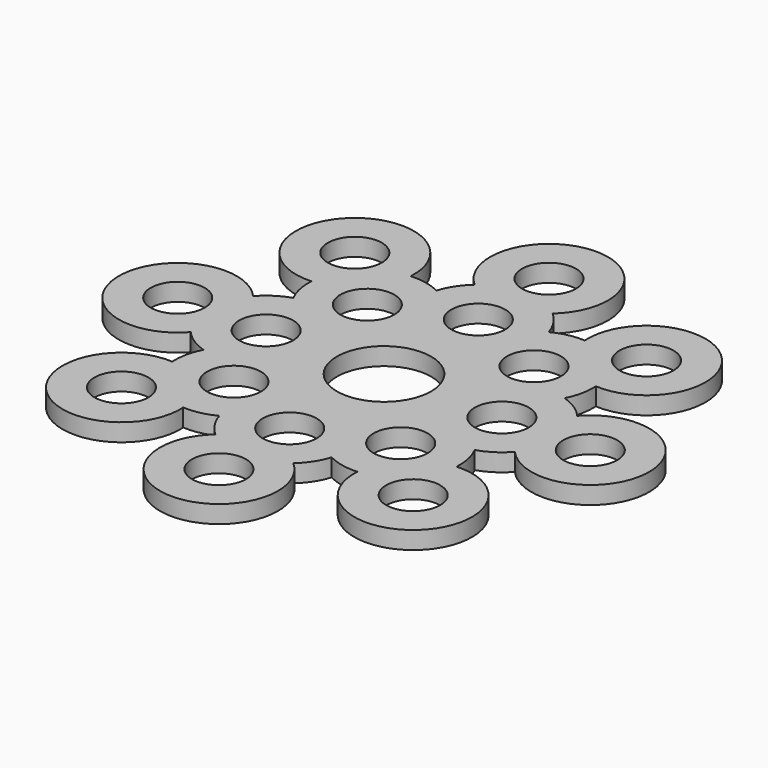
from build123d import *

# Parameters (mm, degrees)
F0_R     = 4.58
F0_R_2   = 8
F1_DEPTH = 3


with BuildPart() as f1:
    # F0 (on Top) → F1 (new body)
    with BuildSketch(Plane.XY):
        with BuildLine():
            ThreePointArc((6.614378, 27.5), (0, 45), (-6.614378, 27.5))
            ThreePointArc((-6.614378, 27.5), (-8.379534, 25.457418), (-9.533996, 23.017103))
            ThreePointArc((-9.533996, 23.017103), (-12.075887, 23.926338), (-14.768365, 24.122508))
            ThreePointArc((-14.768365, 24.122508), (-31.819805, 31.819805), (-24.122508, 14.768365))
            ThreePointArc((-24.122508, 14.768365), (-23.926338, 12.075887), (-23.017103, 9.533996))
            ThreePointArc((-23.017103, 9.533996), (-25.457418, 8.379534), (-27.5, 6.614378))
            ThreePointArc((-27.5, 6.614378), (-45, 0), (-27.5, -6.614378))
            ThreePointArc((-27.5, -6.614378), (-25.457418, -8.379534), (-23.017103, -9.533996))
            ThreePointArc((-23.017103, -9.533996), (-23.926338, -12.075887), (-24.122508, -14.768365))
            ThreePointArc((-24.122508, -14.768365), (-31.819805, -31.819805), (-14.768365, -24.122508))
            ThreePointArc((-14.768365, -24.122508), (-12.075887, -23.926338), (-9.533996, -23.017103))
            ThreePointArc((-9.533996, -23.017103), (-8.379534, -25.457418), (-6.614378, -27.5))
            ThreePointArc((-6.614378, -27.5), (0, -45), (6.614378, -27.5))
            ThreePointArc((6.614378, -27.5), (8.379534, -25.457418), (9.533996, -23.017103))
            ThreePointArc((9.533996, -23.017103), (12.075887, -23.926338), (14.768365, -24.122508))
            ThreePointArc((14.768365, -24.122508), (31.819805, -31.819805), (24.122508, -14.768365))
            ThreePointArc((24.122508, -14.768365), (23.926338, -12.075887), (23.017103, -9.533996))
            ThreePointArc((23.017103, -9.533996), (25.457418, -8.379534), (27.5, -6.614378))
            ThreePointArc((27.5, -6.614378), (45, 0), (27.5, 6.614378))
            ThreePointArc((27.5, 6.614378), (25.457418, 8.379534), (23.017103, 9.533996))
            ThreePointArc((23.017103, 9.533996), (23.926338, 12.075887), (24.122508, 14.768365))
            ThreePointArc((24.122508, 14.768365), (31.819805, 31.819805), (14.768365, 24.122508))
            ThreePointArc((14.768365, 24.122508), (12.075887, 23.926338), (9.533996, 23.017103))
            ThreePointArc((9.533996, 23.017103), (8.379534, 25.457418), (6.614378, 27.5))
        make_face()
        with Locations((-24.748737, -24.748737)):
            Circle(F0_R, mode=Mode.SUBTRACT)
        with Locations((-14.142136, -14.142136)):
            Circle(F0_R, mode=Mode.SUBTRACT)
        with Locations((0, -35)):
            Circle(F0_R, mode=Mode.SUBTRACT)
        with Locations((24.748737, -24.748737)):
            Circle(F0_R, mode=Mode.SUBTRACT)
        with Locations((0, -20)):
            Circle(F0_R, mode=Mode.SUBTRACT)
        with Locations((14.142136, -14.142136)):
            Circle(F0_R, mode=Mode.SUBTRACT)
        with Locations((-35, 0)):
            Circle(F0_R, mode=Mode.SUBTRACT)
        with Locations((-20, 0)):
            Circle(F0_R, mode=Mode.SUBTRACT)
        with Locations((-14.142136, 14.142136)):
            Circle(F0_R, mode=Mode.SUBTRACT)
        with Locations((-24.748737, 24.748737)):
            Circle(F0_R, mode=Mode.SUBTRACT)
        Circle(F0_R_2, mode=Mode.SUBTRACT)
        with Locations((20, 0)):
            Circle(F0_R, mode=Mode.SUBTRACT)
        with Locations((0, 20)):
            Circle(F0_R, mode=Mode.SUBTRACT)
        with Locations((14.142136, 14.142136)):
            Circle(F0_R, mode=Mode.SUBTRACT)
        with Locations((35, 0)):
            Circle(F0_R, mode=Mode.SUBTRACT)
        with Locations((0, 35)):
            Circle(F0_R, mode=Mode.SUBTRACT)
        with Locations((24.748737, 24.748737)):
            Circle(F0_R, mode=Mode.SUBTRACT)
    extrude(amount=F1_DEPTH)


solid = f1.part
